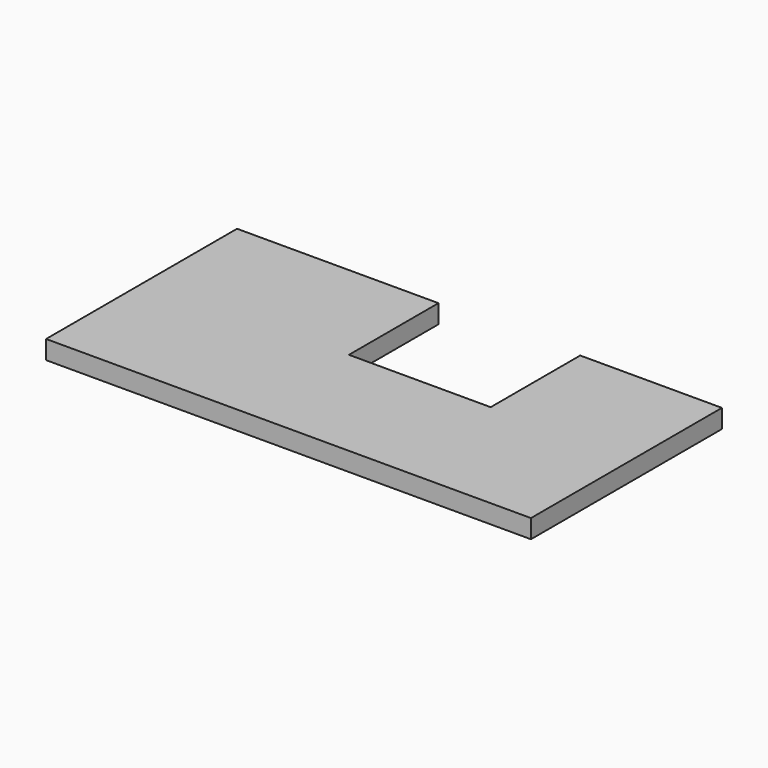
from build123d import *

# Parameters (mm, degrees)
F0_W     = 270
F0_H     = 150
F0_W_2   = 190
F1_DEPTH = 25


with BuildPart() as f1:
    # F0 (on Top) → F1 (new body)
    with BuildSketch(Plane.XY):
        with Locations((-190, 160)):
            Rectangle(F0_W, F0_H)
        with Locations((230, 160)):
            Rectangle(F0_W_2, F0_H)
        Polygon((325, -85), (325, 85), (135, 85), (-55, 85), (-325, 85), (-325, -85), align=None)
    extrude(amount=F1_DEPTH)


solid = f1.part
